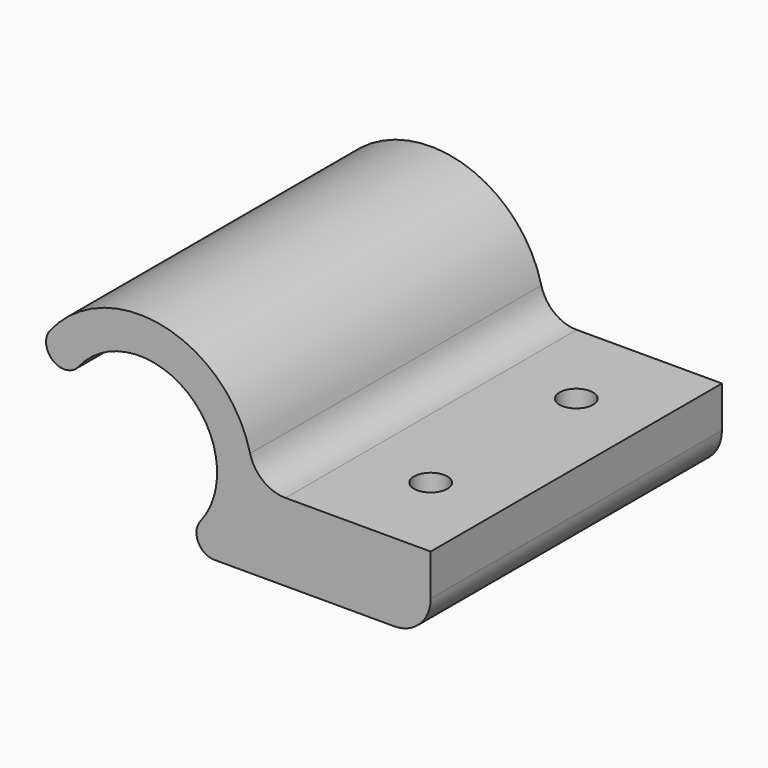
from build123d import *

# Parameters (mm, degrees)
F1_DEPTH = 25
F2_R     = 5
F3_R     = 2.3
F4_DEPTH = 10.669


with BuildPart() as f1:
    # F0 (on Front) → F1 (new body, symmetric)
    with BuildSketch(Plane.XZ):
        with BuildLine():
            ThreePointArc((-8.367673, 6.617271), (6.617271, 8.367673), (8.367673, -6.617271))
            ThreePointArc((8.367673, -6.617271), (8.078399, -9.257307), (10.328601, -10.668))
            Line((10.328601, -10.668), (40, -10.668))
            Line((40, -10.668), (40, 0))
            Line((40, 0), (15.668, 0))
            ThreePointArc((15.668, 0), (5.144603, 14.7993), (-12.289529, 9.718729))
            ThreePointArc((-12.289529, 9.718729), (-11.87933, 6.207072), (-8.367673, 6.617271))
        make_face()
    extrude(amount=F1_DEPTH, both=True)

    # F2
    f2_edges = [f1.edges().sort_by_distance(p)[0] for p in [
        (15.668, 0, 0),
        (40, 0, -10.668),
    ]]
    fillet(f2_edges, radius=F2_R)

    # F3 (on Top) → F4 (cut, through all)
    with BuildSketch(Plane.XY):
        with Locations((30, 12.5)):
            Circle(F3_R)
        with Locations((30, -12.5)):
            Circle(F3_R)
    extrude(amount=-F4_DEPTH, mode=Mode.SUBTRACT)


solid = f1.part
